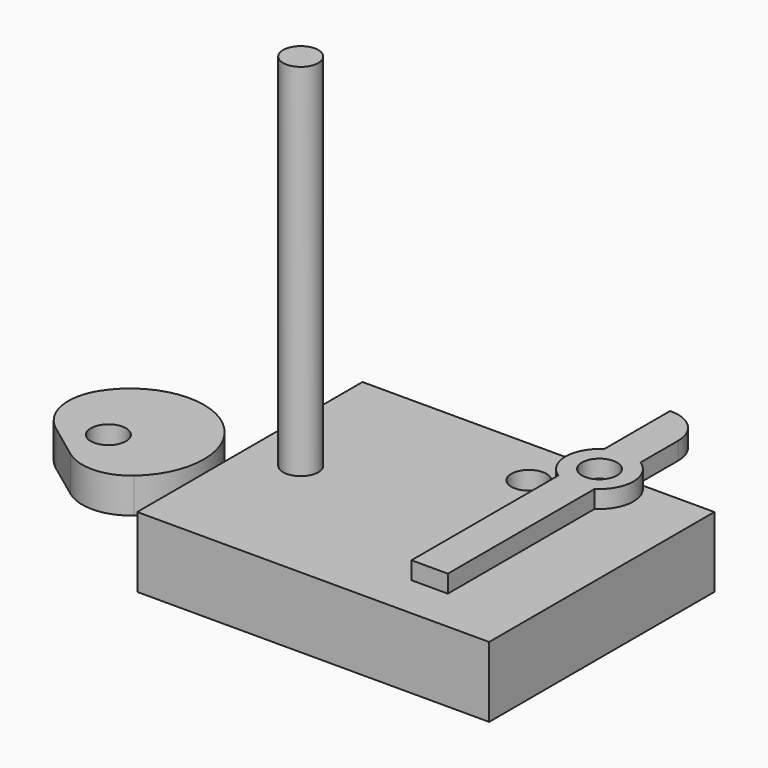
from build123d import *

# Parameters (mm, degrees)
F0_W      = 127
F0_H      = 101.6
F0_R      = 6.35
F1_DEPTH  = 25.4
F2_R      = 6.35
F3_DEPTH  = 130.048
F4_R      = 6.35
F5_DEPTH  = 12.7
F6_R      = 19.05
F7_R      = 17.78
F8_R      = 6.35
F9_DEPTH  = 137.922
F10_R     = 6.35
F11_DEPTH = 6.35
F12_R     = 12.7


with BuildPart() as f1:
    # F0 (on Top) → F1 (new body)
    with BuildSketch(Plane.XY):
        Rectangle(F0_W, F0_H)
        with Locations((-45.1431944966, 0)):
            Circle(F0_R, mode=Mode.SUBTRACT)
    extrude(amount=F1_DEPTH)

    # F8 (on face) → F9 (cut)
    with BuildSketch(Plane.XY.offset(25.4)):
        with Locations((10.6044970453, 33.257137984)):
            Circle(F8_R)
    extrude(amount=-F9_DEPTH, mode=Mode.SUBTRACT)


with BuildPart() as f3:
    # F2 (on face) → F3 (new body)
    with BuildSketch(Plane.XY.offset(25.4)):
        with Locations((-45.1431944966, 0)):
            Circle(F2_R)
    extrude(amount=F3_DEPTH)


with BuildPart() as f5:
    # F4 (on Top) → F5 (new body)
    with BuildSketch(Plane.XY):
        with BuildLine():
            ThreePointArc((-108.090634243, -21.3923586225), (-94.8955793472, 26.4752985002), (-136.9013008795, 0))
            Line((-136.9013008795, 0), (-108.090634243, -21.3923586225))
        make_face()
        with Locations((-114.5538915724, 0)):
            Circle(F4_R, mode=Mode.SUBTRACT)
    extrude(amount=F5_DEPTH)

    # F6
    f6_edges = [f5.edges().sort_by_distance(p)[0] for p in [
        (-136.901301, 0, 6.35),
    ]]
    fillet(f6_edges, radius=F6_R)

    # F7
    f7_edges = [f5.edges().sort_by_distance(p)[0] for p in [
        (-108.090634, -21.392359, 6.35),
    ]]
    fillet(f7_edges, radius=F7_R)


with BuildPart() as f11:
    # F10 (on face) → F11 (new body)
    with BuildSketch(Plane.XY.offset(25.4)):
        with BuildLine():
            Line((35.9835483276, 81.5974065338), (22.8754119955, 81.5974065338))
            Line((22.8754119955, 81.5974065338), (22.8754119955, 51.8593189565))
            ThreePointArc((22.8754119955, 51.8593189565), (22.1442782459, 51.3555103512), (21.4516109951, 50.8))
            Line((21.4516109951, 50.8), (37.442334073, 50.8))
            ThreePointArc((37.442334073, 50.8), (36.7330359031, 51.3678620223), (35.9835483276, 51.8815151585))
            Line((35.9835483276, 51.8815151585), (35.9835483276, 81.5974065338))
        make_face()
        with BuildLine():
            Line((37.442334073, 50.8), (21.4516109951, 50.8))
            ThreePointArc((21.4516109951, 50.8), (17.2452085424, 40.6528404263), (22.8754119955, 31.2210071959))
            Line((22.8754119955, 31.2210071959), (22.8754119955, -35.0446995583))
            Line((22.8754119955, -35.0446995583), (35.9835483276, -35.0446995583))
            Line((35.9835483276, -35.0446995583), (35.9835483276, 31.198810994))
            ThreePointArc((35.9835483276, 31.198810994), (41.6472165181, 40.6321802998), (37.442334073, 50.8))
        make_face()
        with Locations((29.4469725341, 41.5401630762)):
            Circle(F10_R, mode=Mode.SUBTRACT)
    extrude(amount=F11_DEPTH)

    # F12
    f12_edges = [f11.edges().sort_by_distance(p)[0] for p in [
        (35.983548, 81.597407, 28.575),
    ]]
    fillet(f12_edges, radius=F12_R)


solid = Compound([f1.part, f3.part, f5.part, f11.part])
